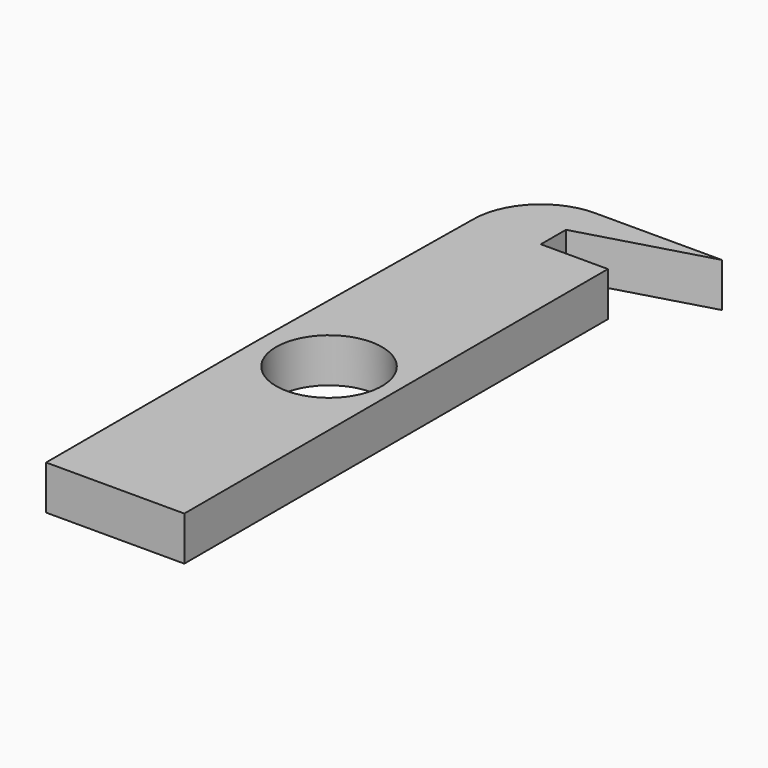
from build123d import *

# Parameters (mm, degrees)
F1_DEPTH = 3.175
F2_DEPTH = 25.4
F3_D     = 7.62


with BuildPart() as f1:
    # F0 (on Top) → F1 (new body)
    with BuildSketch(Plane.XY):
        with BuildLine():
            Line((-5.1198361907, 0), (0, 0))
            Line((0, 0), (0, 14.0471234521))
            ThreePointArc((0, 14.0471234521), (-4.826, 18.8731234521), (0, 23.6991234521))
            Line((0, 23.6991234521), (0, 38.1))
            Line((0, 38.1), (0, 40.3563641012))
            Line((0, 40.3563641012), (9.1353934258, 42.9664775729))
            Line((9.1353934258, 42.9664775729), (0, 42.9664775729))
            ThreePointArc((0, 42.9664775729), (-3.4411192923, 41.5411192923), (-4.8664775729, 38.1))
            Line((-4.8664775729, 38.1), (-5.1198361907, 18.8731234521))
            Line((-5.1198361907, 18.8731234521), (-5.1198361907, 0))
        make_face()
        with BuildLine():
            Line((0, 38.1), (0, 23.6991234521))
            ThreePointArc((0, 23.6991234521), (3.412497326, 22.2856207781), (4.826, 18.8731234521))
            Line((4.826, 18.8731234521), (4.826, 38.1))
            Line((4.826, 38.1), (0, 38.1))
        make_face()
        with BuildLine():
            Line((0, 19.05), (0, 14.0471234521))
            ThreePointArc((0, 14.0471234521), (3.412497326, 15.4606261261), (4.826, 18.8731234521))
            ThreePointArc((4.826, 18.8731234521), (3.412497326, 22.2856207781), (0, 23.6991234521))
            Line((0, 23.6991234521), (0, 19.05))
        make_face()
        with BuildLine():
            ThreePointArc((0, 23.6991234521), (-4.826, 18.8731234521), (0, 14.0471234521))
            Line((0, 14.0471234521), (0, 19.05))
            Line((0, 19.05), (0, 23.6991234521))
        make_face()
        with BuildLine():
            Line((0, 14.0471234521), (0, 0))
            Line((0, 0), (4.826, 0))
            Line((4.826, 0), (4.826, 4.826))
            Line((4.826, 4.826), (4.826, 18.8731234521))
            ThreePointArc((4.826, 18.8731234521), (3.412497326, 15.4606261261), (0, 14.0471234521))
        make_face()
    extrude(amount=F1_DEPTH)

    # F0 (on Top) + F1_face (on face) → F2 (cut)
    with BuildSketch(Plane.XY):
        with BuildLine():
            Line((-5.1198361907, 0), (0, 0))
            Line((0, 0), (0, 14.0471234521))
            ThreePointArc((0, 14.0471234521), (-4.826, 18.8731234521), (0, 23.6991234521))
            Line((0, 23.6991234521), (0, 38.1))
            Line((0, 38.1), (0, 40.3563641012))
            Line((0, 40.3563641012), (9.1353934258, 42.9664775729))
            Line((9.1353934258, 42.9664775729), (0, 42.9664775729))
            ThreePointArc((0, 42.9664775729), (-3.4411192923, 41.5411192923), (-4.8664775729, 38.1))
            Line((-4.8664775729, 38.1), (-5.1198361907, 18.8731234521))
            Line((-5.1198361907, 18.8731234521), (-5.1198361907, 0))
        make_face()
        with BuildLine():
            Line((0, 14.0471234521), (0, 0))
            Line((0, 0), (4.826, 0))
            Line((4.826, 0), (4.826, 4.826))
            Line((4.826, 4.826), (4.826, 18.8731234521))
            ThreePointArc((4.826, 18.8731234521), (3.412497326, 15.4606261261), (0, 14.0471234521))
        make_face()
        with BuildLine():
            Line((0, 19.05), (0, 14.0471234521))
            ThreePointArc((0, 14.0471234521), (3.412497326, 15.4606261261), (4.826, 18.8731234521))
            ThreePointArc((4.826, 18.8731234521), (3.412497326, 22.2856207781), (0, 23.6991234521))
            Line((0, 23.6991234521), (0, 19.05))
        make_face()
        with BuildLine():
            Line((0, 38.1), (0, 23.6991234521))
            ThreePointArc((0, 23.6991234521), (3.412497326, 22.2856207781), (4.826, 18.8731234521))
            Line((4.826, 18.8731234521), (4.826, 38.1))
            Line((4.826, 38.1), (0, 38.1))
        make_face()
    with BuildSketch(Plane(origin=(-0.1118375102, 20.6143518091, 0), x_dir=(1, 0, 0), z_dir=(0, 0, -1))):
        with BuildLine():
            Line((0.1118375102, -17.4856481909), (4.9378375102, -17.4856481909))
            Line((4.9378375102, -17.4856481909), (4.9378375102, 20.6143518091))
            Line((4.9378375102, 20.6143518091), (-5.0079986805, 20.6143518091))
            Line((-5.0079986805, 20.6143518091), (-5.0079986805, 1.741228357))
            Line((-5.0079986805, 1.741228357), (-4.7546400627, -17.4856481909))
            ThreePointArc((-4.7546400627, -17.4856481909), (-3.3292817821, -20.9267674832), (0.1118375102, -22.3521257638))
            Line((0.1118375102, -22.3521257638), (9.247230936, -22.3521257638))
            Line((9.247230936, -22.3521257638), (0.1118375102, -19.7420122921))
            Line((0.1118375102, -19.7420122921), (0.1118375102, -17.4856481909))
        make_face()
    extrude(amount=-F2_DEPTH, dir=(0, 0, 1), mode=Mode.SUBTRACT)

    # F3 (through all)
    with Locations(Plane(origin=(0, 0, 0), x_dir=(1, 0, 0), z_dir=(0, 0, -1))):
        with Locations((0, -19.05)):
            Hole(F3_D / 2)


solid = f1.part
